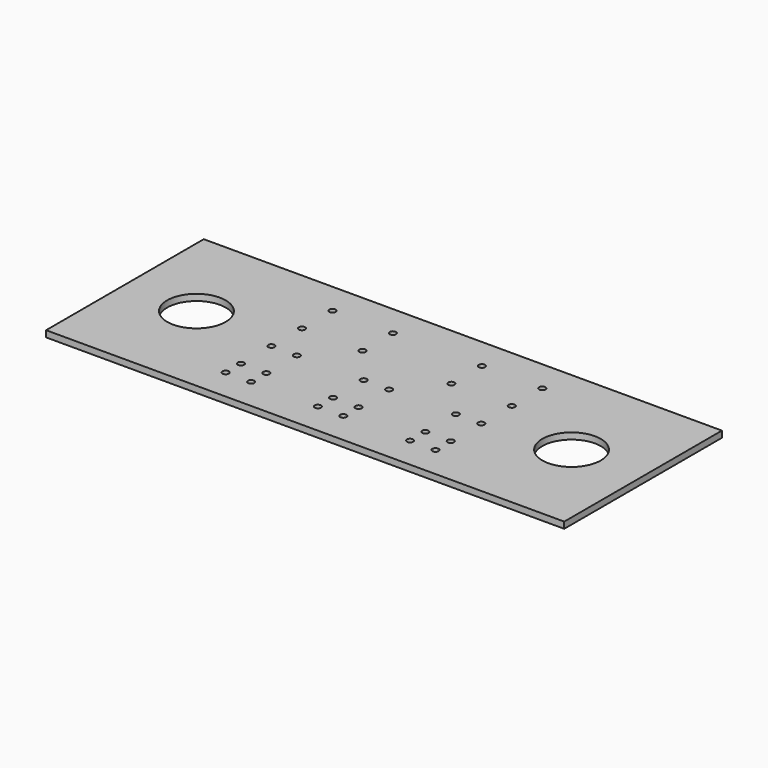
from build123d import *

# Parameters (mm, degrees)
F0_W     = 81.5
F0_H     = 31
F0_R     = 0.5
F0_R_2   = 4.6
F1_DEPTH = 1


with BuildPart() as f1:
    # F0 (on Top) → F1 (new body)
    with BuildSketch(Plane.XY):
        with Locations((29.5, 0)):
            Rectangle(F0_W, F0_H)
        with Locations((13, -10.5)):
            Circle(F0_R, mode=Mode.SUBTRACT)
        with Locations((17, -10.5)):
            Circle(F0_R, mode=Mode.SUBTRACT)
        with Locations((27.5, -10.5)):
            Circle(F0_R, mode=Mode.SUBTRACT)
        with Locations((13, -7.5)):
            Circle(F0_R, mode=Mode.SUBTRACT)
        with Locations((17, -7.5)):
            Circle(F0_R, mode=Mode.SUBTRACT)
        with Locations((27.5, -7.5)):
            Circle(F0_R, mode=Mode.SUBTRACT)
        with Locations((13, -1.5)):
            Circle(F0_R, mode=Mode.SUBTRACT)
        with Locations((17, -1.5)):
            Circle(F0_R, mode=Mode.SUBTRACT)
        with Locations((27.5, -1.5)):
            Circle(F0_R, mode=Mode.SUBTRACT)
        with Locations((31.5, -10.5)):
            Circle(F0_R, mode=Mode.SUBTRACT)
        with Locations((42, -10.5)):
            Circle(F0_R, mode=Mode.SUBTRACT)
        with Locations((46, -10.5)):
            Circle(F0_R, mode=Mode.SUBTRACT)
        with Locations((31.5, -7.5)):
            Circle(F0_R, mode=Mode.SUBTRACT)
        with Locations((42, -7.5)):
            Circle(F0_R, mode=Mode.SUBTRACT)
        with Locations((46, -7.5)):
            Circle(F0_R, mode=Mode.SUBTRACT)
        with Locations((31.5, -1.5)):
            Circle(F0_R, mode=Mode.SUBTRACT)
        with Locations((42, -1.5)):
            Circle(F0_R, mode=Mode.SUBTRACT)
        with Locations((46, -1.5)):
            Circle(F0_R, mode=Mode.SUBTRACT)
        Circle(F0_R_2, mode=Mode.SUBTRACT)
        with Locations((13, 4.5)):
            Circle(F0_R, mode=Mode.SUBTRACT)
        with Locations((22.5, 4.5)):
            Circle(F0_R, mode=Mode.SUBTRACT)
        with Locations((13, 10.5)):
            Circle(F0_R, mode=Mode.SUBTRACT)
        with Locations((22.5, 10.5)):
            Circle(F0_R, mode=Mode.SUBTRACT)
        with Locations((36.5, 4.5)):
            Circle(F0_R, mode=Mode.SUBTRACT)
        with Locations((46, 4.5)):
            Circle(F0_R, mode=Mode.SUBTRACT)
        with Locations((59, 0)):
            Circle(F0_R_2, mode=Mode.SUBTRACT)
        with Locations((36.5, 10.5)):
            Circle(F0_R, mode=Mode.SUBTRACT)
        with Locations((46, 10.5)):
            Circle(F0_R, mode=Mode.SUBTRACT)
    extrude(amount=F1_DEPTH)


solid = f1.part
